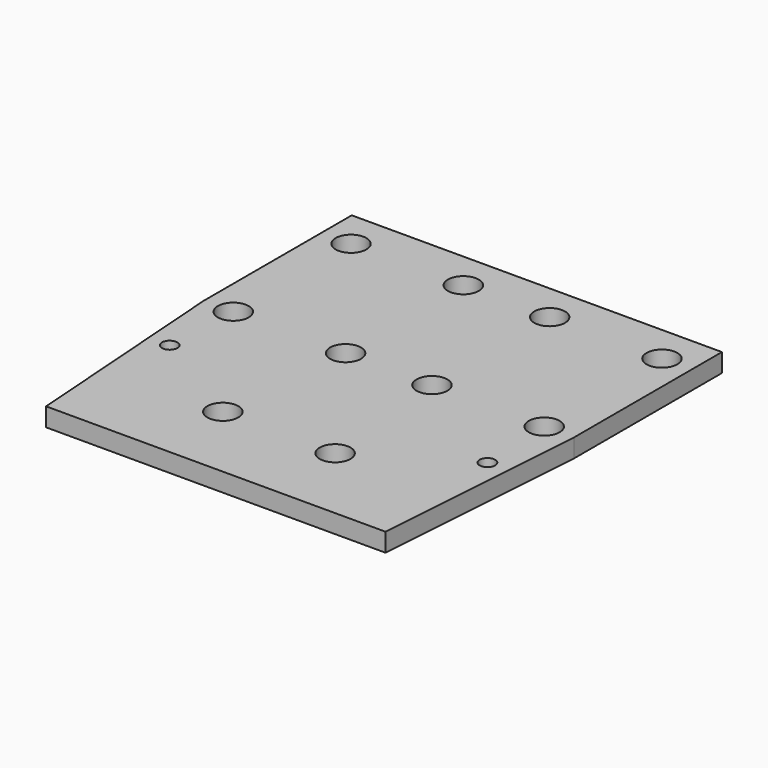
from build123d import *

# Parameters (mm, degrees)
F0_R     = 2.5
F0_R_2   = 1.25
F1_DEPTH = 3


with BuildPart() as f1:
    # F0 (on Top) → F1 (new body)
    with BuildSketch(Plane.XY):
        Polygon((30, 30), (-30, 30), (-30, 0), (-27.5, -35.056427), (27.5, -35.056427), (30, 0), align=None)
        with Locations((-9.1, -22.25)):
            Circle(F0_R, mode=Mode.SUBTRACT)
        with Locations((-25.75, -12.2)):
            Circle(F0_R_2, mode=Mode.SUBTRACT)
        with Locations((9.1, -22.25)):
            Circle(F0_R, mode=Mode.SUBTRACT)
        with Locations((25.75, -12.2)):
            Circle(F0_R_2, mode=Mode.SUBTRACT)
        with Locations((-25.2, 0)):
            Circle(F0_R, mode=Mode.SUBTRACT)
        with Locations((-7, 0)):
            Circle(F0_R, mode=Mode.SUBTRACT)
        with Locations((-25.2, 23.85)):
            Circle(F0_R, mode=Mode.SUBTRACT)
        with Locations((-7, 23.85)):
            Circle(F0_R, mode=Mode.SUBTRACT)
        with Locations((7, 0)):
            Circle(F0_R, mode=Mode.SUBTRACT)
        with Locations((25.2, 0)):
            Circle(F0_R, mode=Mode.SUBTRACT)
        with Locations((7, 23.85)):
            Circle(F0_R, mode=Mode.SUBTRACT)
        with Locations((25.2, 23.85)):
            Circle(F0_R, mode=Mode.SUBTRACT)
    extrude(amount=F1_DEPTH)


solid = f1.part
